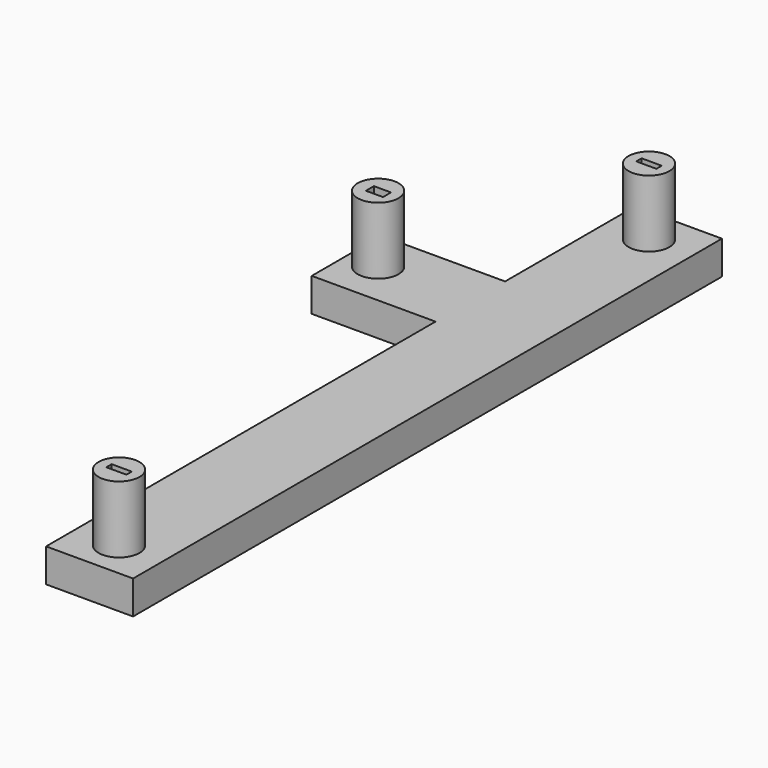
from build123d import *

# Parameters (mm, degrees)
PAD_DEPTH         = 1
SKETCH001_W       = 3
SKETCH001_H       = 1
SKETCH001_W_2     = 3.012331
SKETCH001_W_3     = 2.553459
SKETCH001_H_2     = 1.5
PAD001_DEPTH      = 20
CYLINDER_R        = 3.05
CYLINDER_DEPTH    = 15
CYLINDER002_R     = 3.05
CYLINDER002_DEPTH = 15
PAD002_DEPTH      = 5
CYLINDER001_R     = 3.05
CYLINDER001_DEPTH = 15


with BuildPart() as channels_with_connection:
    # Sketch → Pad (new body)
    with BuildSketch(Plane.XY.offset(2)):
        Polygon((-1.5, 0), (1.5, 0), (1.5, -100), (-1.5, -100), (-1.5, -26.5), (-21.5, -26.5), (-21.5, -25), (-1.5, -25), align=None)
    extrude(amount=PAD_DEPTH)

    # Sketch001 → Pad001 (new body)
    with BuildSketch(Plane.XY.offset(3)):
        with Locations((0, -0.5)):
            Rectangle(SKETCH001_W, SKETCH001_H)
        with Locations((0.001527, -99.493348)):
            Rectangle(SKETCH001_W_2, SKETCH001_H)
        with Locations((-20.22327, -25.757023)):
            Rectangle(SKETCH001_W_3, SKETCH001_H_2)
    extrude(amount=PAD001_DEPTH)


with BuildPart() as cylinder:
    # Cylinder → Cylinder (new body)
    with BuildSketch(Plane(origin=(0, -0.5, 0), x_dir=(1, 0, 0), z_dir=(0, 0, 1))):
        Circle(CYLINDER_R)
    extrude(amount=CYLINDER_DEPTH)


with BuildPart() as cylinder002:
    # Cylinder002 → Cylinder002 (new body)
    with BuildSketch(Plane(origin=(-20.4, -25.6, 0), x_dir=(1, 0, 0), z_dir=(0, 0, 1))):
        Circle(CYLINDER002_R)
    extrude(amount=CYLINDER002_DEPTH)


with BuildPart() as volume_medium:
    # Sketch002 → Pad002 (new body)
    with BuildSketch(Plane.XY):
        Polygon((-6.5, 5), (6.5, 5), (6.5, -105), (-6.5, -105), (-6.5, -32.25), (-25, -32.25), (-25, -19.25), (-6.5, -19.25), align=None)
    extrude(amount=PAD002_DEPTH)


with BuildPart() as t_junction:
    # Cylinder001 → Cylinder001 (new body)
    with BuildSketch(Plane(origin=(0, -99.5, 0), x_dir=(1, 0, 0), z_dir=(0, 0, 1))):
        Circle(CYLINDER001_R)
    extrude(amount=CYLINDER001_DEPTH)

    # Fusion: union Cylinder, Cylinder002, volume_medium
    add(cylinder.part)
    add(cylinder002.part)
    add(volume_medium.part)

    # Cut: cut channels_with_connection
    add(channels_with_connection.part, mode=Mode.SUBTRACT)


solid = t_junction.part
